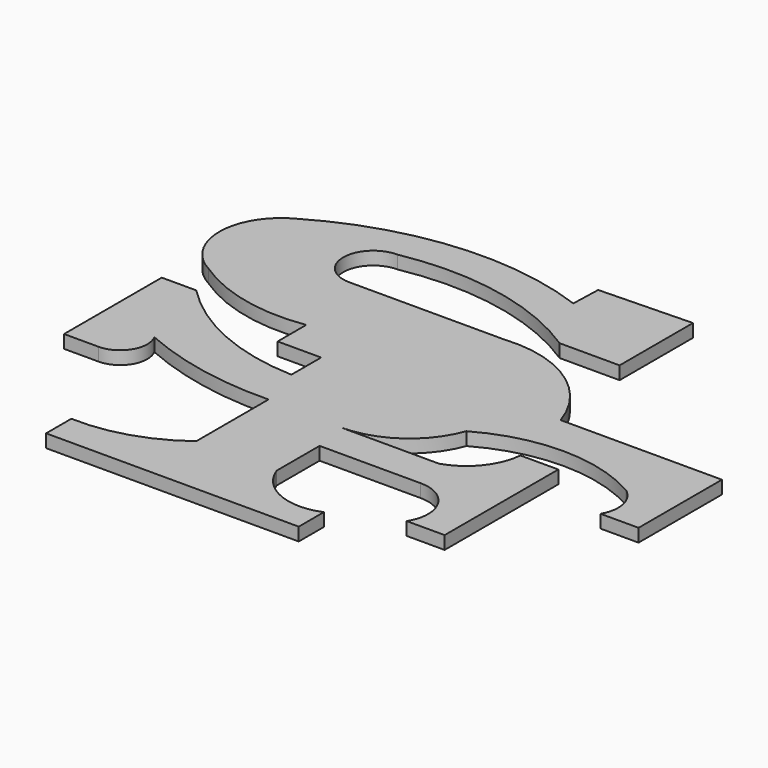
from build123d import *

# Parameters (mm, degrees)
F1_DEPTH = 0.79375


with BuildPart() as f1:
    # F0 (on Top) → F1 (new body)
    with BuildSketch(Plane.XY):
        with BuildLine():
            Line((42.000031, -23.763033), (41.94117, -25.575459))
            ThreePointArc((41.94117, -25.575459), (33.923088, -24.531524), (26.224701, -27.004229))
            ThreePointArc((26.224701, -27.004229), (24.241194, -30.301749), (26.224701, -33.599269))
            ThreePointArc((26.224701, -33.599269), (29.678977, -35.081382), (33.435542, -35.211414))
            Line((33.435542, -35.211414), (33.435542, -37.382893))
            Line((33.435542, -37.382893), (36.077008, -37.382893))
            Line((36.077008, -37.382893), (36.077008, -39.639806))
            ThreePointArc((36.077008, -39.639806), (31.231066, -38.530995), (27.148163, -35.695061))
            Line((27.148163, -35.695061), (25.052369, -35.695061))
            Line((25.052369, -35.695061), (25.052369, -43.110941))
            Line((25.052369, -43.110941), (27.148163, -43.110941))
            ThreePointArc((27.148163, -43.110941), (28.558216, -42.312583), (28.599096, -40.692721))
            ThreePointArc((28.599096, -40.692721), (32.62159, -41.950065), (36.821052, -42.30487))
            Line((36.821052, -42.30487), (36.821052, -47.786169))
            ThreePointArc((36.821052, -47.786169), (33.954147, -49.263502), (30.756857, -49.686592))
            Line((30.756857, -49.686592), (30.756857, -51.603772))
            Line((30.756857, -51.603772), (46.094283, -51.603772))
            Line((46.094283, -51.603772), (46.094283, -49.698772))
            ThreePointArc((46.094283, -49.698772), (43.477966, -49.674709), (41.684773, -47.769412))
            Line((41.684773, -47.769412), (41.684773, -44.510212))
            Line((41.684773, -44.510212), (47.819741, -44.510212))
            ThreePointArc((47.819741, -44.510212), (49.793596, -45.671634), (49.736921, -47.961131))
            Line((49.736921, -47.961131), (52.037533, -47.961131))
            Line((52.037533, -47.961131), (52.037533, -39.333832))
            Line((52.037533, -39.333832), (49.736921, -39.333832))
            ThreePointArc((49.736921, -39.333832), (48.953097, -41.243226), (47.24459, -42.401314))
            Line((47.24459, -42.401314), (41.301336, -42.401314))
            ThreePointArc((41.301336, -42.401314), (44.277461, -41.463342), (46.177962, -38.988427))
            ThreePointArc((46.177962, -38.988427), (51.024926, -37.704438), (55.871889, -38.988427))
            ThreePointArc((55.871889, -38.988427), (56.663483, -40.201879), (56.447044, -41.634444))
            Line((56.447044, -41.634444), (58.747657, -41.634444))
            Line((58.747657, -41.634444), (58.747657, -35.307758))
            Line((58.747657, -35.307758), (48.953097, -35.307758))
            ThreePointArc((48.953097, -35.307758), (46.1603, -31.635386), (41.684773, -30.51481))
            Line((41.684773, -30.51481), (32.2906, -30.51481))
            ThreePointArc((32.2906, -30.51481), (30.469282, -28.693492), (32.2906, -26.872173))
            ThreePointArc((32.2906, -26.872173), (38.359857, -26.894671), (43.985385, -29.172786))
            Line((43.985385, -29.172786), (47.628023, -29.172786))
            Line((47.628023, -29.172786), (47.628023, -23.604551))
            Line((47.628023, -23.604551), (42.000031, -23.763033))
        make_face()
    extrude(amount=F1_DEPTH)


solid = f1.part
